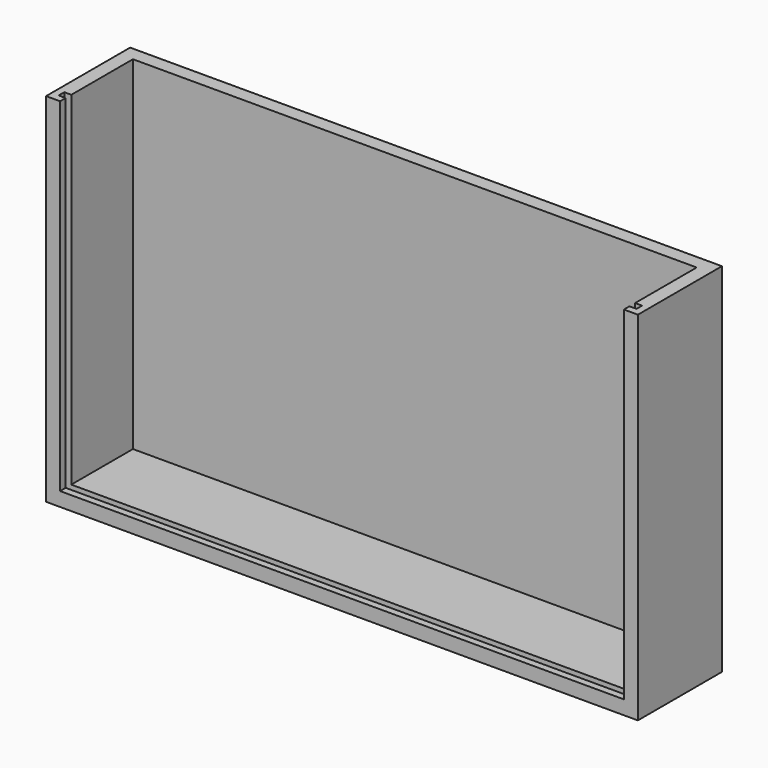
from build123d import *

# Parameters (mm, degrees)
F1_W     = 161
F1_H     = 96
F1_H_2   = 2
F2_DEPTH = 30
F3_T     = -4
F4_W     = 161
F4_H     = 2
F4_W_2   = 2
F5_DEPTH = 100


with BuildPart() as f2:
    # F1 (on Front) → F2 (new body)
    with BuildSketch(Plane.XZ):
        Polygon((82.5, 50), (82.5, -50), (-82.5, -50), (-82.5, 50), (-84.5, 50), (-84.5, -52), (84.5, -52), (84.5, 50), align=None)
        Polygon((-82.5, -50), (82.5, -50), (82.5, 50), (80.5, 50), (80.5, 48), (80.5, -48), (-80.5, -48), (-80.5, 48), (-80.5, 50), (-82.5, 50), align=None)
        Rectangle(F1_W, F1_H)
        with Locations((0, 49)):
            Rectangle(F1_W, F1_H_2)
    extrude(amount=-F2_DEPTH)

    # F3
    f3_openings = [f2.faces().sort_by_distance(p)[0] for p in [
        (0, 15, 50),
        (0, 0, -1),
    ]]
    offset(amount=F3_T, openings=f3_openings)

    # F4 (on face) → F5 (cut)
    with BuildSketch(Plane.XY.offset(50)):
        with Locations((0, 3)):
            Rectangle(F4_W, F4_H)
        with Locations((-81.5, 3)):
            Rectangle(F4_W_2, F4_H)
        with Locations((81.5, 3)):
            Rectangle(F4_W_2, F4_H)
    extrude(amount=-F5_DEPTH, mode=Mode.SUBTRACT)


solid = f2.part
